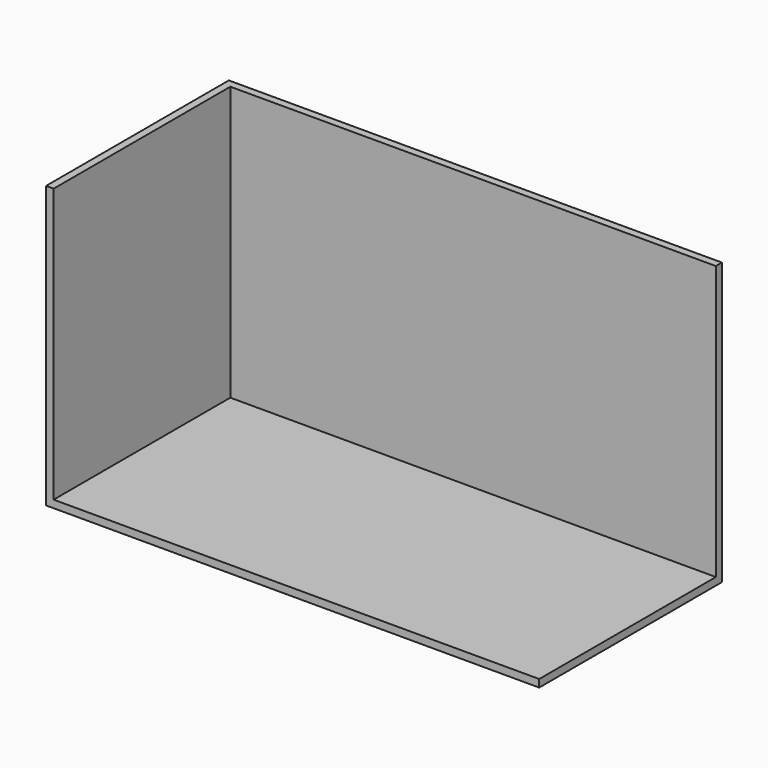
from build123d import *

# Parameters (mm, degrees)
F0_W     = 78
F0_H     = 93
F1_DEPTH = 163
F2_T     = -2.5
F3_DEPTH = 2.5
F4_DEPTH = 2.5
F5_DEPTH = 25


with BuildPart() as f1:
    # F0 (on Right) → F1 (new body)
    with BuildSketch(Plane.YZ):
        with Locations((-119.8926544255, -26.4388019443)):
            Rectangle(F0_W, F0_H)
    extrude(amount=F1_DEPTH)

    # F2
    f2_openings = [f1.faces().sort_by_distance(p)[0] for p in [
        (81.5, -119.892654, 20.061198),
    ]]
    offset(amount=F2_T, openings=f2_openings)

    # F3 (add): a face of the model
    f3_faces = [f1.faces().sort_by_distance(p)[0] for p in [
        (81.5, -158.8926544255, -26.4388019443),
    ]]
    extrude(f3_faces, amount=-F3_DEPTH)

    # F4 (cut): a face of the model
    f4_faces = [f1.faces().sort_by_distance(p)[0] for p in [
        (81.5, -158.8926544255, -26.4388019443),
    ]]
    extrude(f4_faces, amount=-F4_DEPTH, mode=Mode.SUBTRACT)

    # F5 (cut): a face of the model
    f5_faces = [f1.faces().sort_by_distance(p)[0] for p in [
        (160.5, -119.8926544255, -25.1888019443),
    ]]
    extrude(f5_faces, amount=-F5_DEPTH, mode=Mode.SUBTRACT)


solid = f1.part
